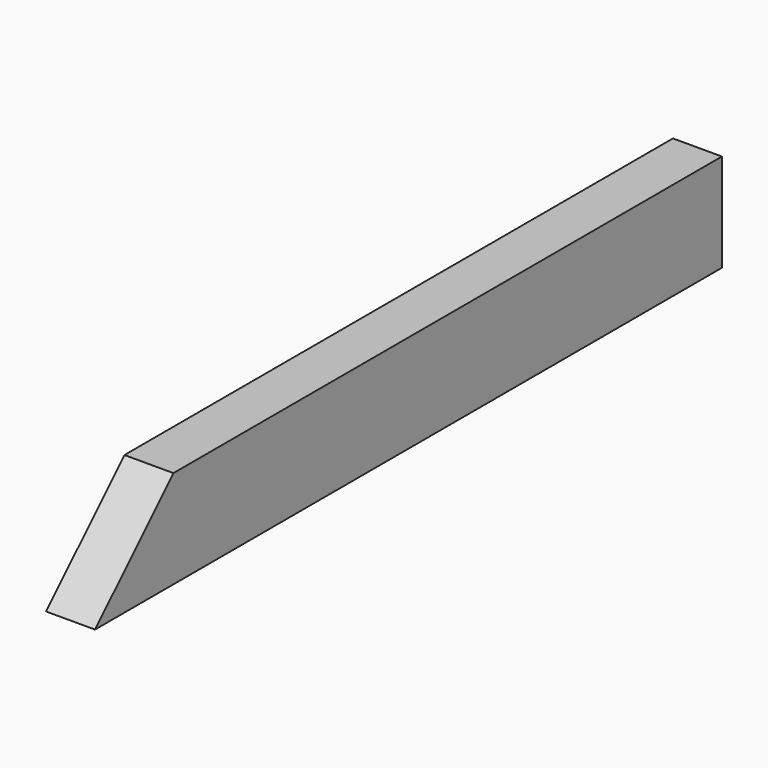
from build123d import *

# Parameters (mm, degrees)
PAD_DEPTH = 10


with BuildPart() as part:
    # Sketch → Pad (new body)
    with BuildSketch(Plane.YZ):
        Polygon((0, 0), (-160, 0), (-140, 20), (0, 20), align=None)
    extrude(amount=PAD_DEPTH)


solid = part.part
